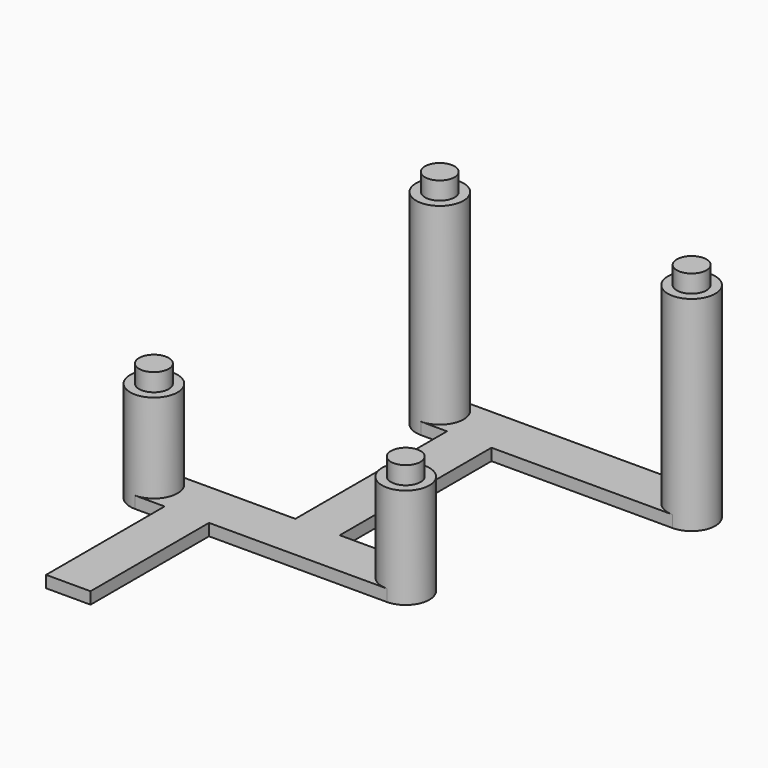
from build123d import *

# Parameters (mm, degrees)
F5_R      = 2.5
F6_DEPTH  = 2
F7_DEPTH  = 34.5
F8_DEPTH  = 37.5
F9_DEPTH  = 17
F10_DEPTH = 20
F12_W     = 7.5
F12_H     = 32
F12_H_2   = 25
F13_DEPTH = 2


with BuildPart() as f6:
    # F5 (on Top) → F6 (new body)
    with BuildSketch(Plane.XY):
        with BuildLine():
            ThreePointArc((0, 4), (2.8284271247, 2.8284271247), (4, 0))
            ThreePointArc((4, 0), (2.8284271247, -2.8284271247), (0, -4))
            Line((0, -4), (42.5, -4))
            ThreePointArc((42.5, -4), (38.5, 0), (42.5, 4))
            Line((42.5, 4), (0, 4))
        make_face()
        with BuildLine():
            ThreePointArc((0, -4), (2.8284271247, -2.8284271247), (4, 0))
            ThreePointArc((4, 0), (2.8284271247, 2.8284271247), (0, 4))
            ThreePointArc((0, 4), (-4, 0), (0, -4))
        make_face()
        Circle(F5_R, mode=Mode.SUBTRACT)
        with BuildLine():
            ThreePointArc((46.5, 0), (45.3284271247, 2.8284271247), (42.5, 4))
            ThreePointArc((42.5, 4), (38.5, 0), (42.5, -4))
            ThreePointArc((42.5, -4), (45.3284271247, -2.8284271247), (46.5, 0))
        make_face()
        with Locations((42.5, 0)):
            Circle(F5_R, mode=Mode.SUBTRACT)
        Circle(F5_R)
        with Locations((42.5, 0)):
            Circle(F5_R)
    extrude(amount=F6_DEPTH)

    # F5 (on Top) → F7 (join)
    with BuildSketch(Plane.XY):
        with BuildLine():
            ThreePointArc((0, -4), (2.8284271247, -2.8284271247), (4, 0))
            ThreePointArc((4, 0), (2.8284271247, 2.8284271247), (0, 4))
            ThreePointArc((0, 4), (-4, 0), (0, -4))
        make_face()
        Circle(F5_R, mode=Mode.SUBTRACT)
        with BuildLine():
            ThreePointArc((46.5, 0), (45.3284271247, 2.8284271247), (42.5, 4))
            ThreePointArc((42.5, 4), (38.5, 0), (42.5, -4))
            ThreePointArc((42.5, -4), (45.3284271247, -2.8284271247), (46.5, 0))
        make_face()
        with Locations((42.5, 0)):
            Circle(F5_R, mode=Mode.SUBTRACT)
        Circle(F5_R)
        with Locations((42.5, 0)):
            Circle(F5_R)
    extrude(amount=F7_DEPTH)

    # F5 (on Top) → F8 (join)
    with BuildSketch(Plane.XY):
        Circle(F5_R)
        with Locations((42.5, 0)):
            Circle(F5_R)
    extrude(amount=F8_DEPTH)



with BuildPart() as f6b:
    # F5 (on Top) → F6, piece 2 (new body)
    with BuildSketch(Plane.XY):
        with BuildLine():
            ThreePointArc((0, -36), (2.8284271247, -37.1715728753), (4, -40))
            ThreePointArc((4, -40), (2.8284271247, -42.8284271247), (0, -44))
            Line((0, -44), (42.5, -44))
            ThreePointArc((42.5, -44), (38.5, -40), (42.5, -36))
            Line((42.5, -36), (0, -36))
        make_face()
        with BuildLine():
            ThreePointArc((46.5, -40), (45.3284271247, -37.1715728753), (42.5, -36))
            ThreePointArc((42.5, -36), (38.5, -40), (42.5, -44))
            ThreePointArc((42.5, -44), (45.3284271247, -42.8284271247), (46.5, -40))
        make_face()
        with Locations((42.5, -40)):
            Circle(F5_R, mode=Mode.SUBTRACT)
        with BuildLine():
            ThreePointArc((0, -44), (2.8284271247, -42.8284271247), (4, -40))
            ThreePointArc((4, -40), (2.8284271247, -37.1715728753), (0, -36))
            ThreePointArc((0, -36), (-4, -40), (0, -44))
        make_face()
        with Locations((0, -40)):
            Circle(F5_R, mode=Mode.SUBTRACT)
        with Locations((0, -40)):
            Circle(F5_R)
        with Locations((42.5, -40)):
            Circle(F5_R)
    extrude(amount=F6_DEPTH)

    # F5 (on Top) → F9 (join)
    with BuildSketch(Plane.XY):
        with BuildLine():
            ThreePointArc((0, -44), (2.8284271247, -42.8284271247), (4, -40))
            ThreePointArc((4, -40), (2.8284271247, -37.1715728753), (0, -36))
            ThreePointArc((0, -36), (-4, -40), (0, -44))
        make_face()
        with Locations((0, -40)):
            Circle(F5_R, mode=Mode.SUBTRACT)
        with BuildLine():
            ThreePointArc((46.5, -40), (45.3284271247, -37.1715728753), (42.5, -36))
            ThreePointArc((42.5, -36), (38.5, -40), (42.5, -44))
            ThreePointArc((42.5, -44), (45.3284271247, -42.8284271247), (46.5, -40))
        make_face()
        with Locations((42.5, -40)):
            Circle(F5_R, mode=Mode.SUBTRACT)
        with Locations((0, -40)):
            Circle(F5_R)
        with Locations((42.5, -40)):
            Circle(F5_R)
    extrude(amount=F9_DEPTH)

    # F5 (on Top) → F10 (join)
    with BuildSketch(Plane.XY):
        with Locations((0, -40)):
            Circle(F5_R)
        with Locations((42.5, -40)):
            Circle(F5_R)
    extrude(amount=F10_DEPTH)


with BuildPart() as f6b_1:
    # F11: moved
    add(f6b.part.moved(Location((-16.25, 0, 0))))


with BuildPart() as f6_1:
    add(f6.part)

    add(f6b_1.part)  # F13 merges F6b
    # F12 (on Top) → F13 (join)
    with BuildSketch(Plane.XY):
        with Locations((8.1697826646, -20)):
            Rectangle(F12_W, F12_H)
        with Locations((-7.5, -56.5)):
            Rectangle(F12_W, F12_H_2)
    extrude(amount=F13_DEPTH)


solid = f6_1.part
